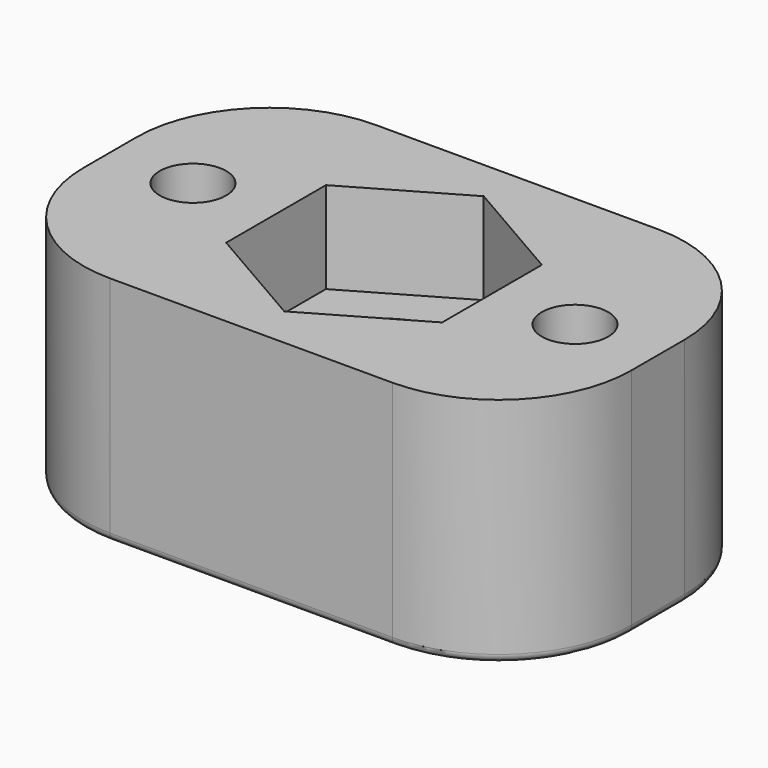
from build123d import *

# Parameters (mm, degrees)
SKETCH_W         = 33
SKETCH_H         = 20
PAD_DEPTH        = 14
FILLET_R         = 8
FILLET001_R      = 8
FILLET002_R      = 8
FILLET003_R      = 8
POCKET_DEPTH     = 5.51
SKETCH002_R      = 4
POCKET001_DEPTH  = 8.491
SKETCH003_R      = 2
POCKET002_DEPTH  = 14.001
CHAMFER_SIZE2    = 3
CHAMFER_SIZE     = 2
CHAMFER001_SIZE2 = 3
CHAMFER001_SIZE  = 2
FILLET004_R      = 0.5
SKETCH004_R      = 6.5
POCKET003_DEPTH  = 0.01


with BuildPart() as part:
    # Sketch → Pad (new body)
    with BuildSketch(Plane.XY):
        Rectangle(SKETCH_W, SKETCH_H)
    extrude(amount=PAD_DEPTH)

    # Fillet
    fillet_edges = [part.edges().sort_by_distance(p)[0] for p in [
        (-16.5, -10, 7),
    ]]
    fillet(fillet_edges, radius=FILLET_R)

    # Fillet001
    fillet001_edges = [part.edges().sort_by_distance(p)[0] for p in [
        (16.5, -10, 7),
    ]]
    fillet(fillet001_edges, radius=FILLET001_R)

    # Fillet002
    fillet002_edges = [part.edges().sort_by_distance(p)[0] for p in [
        (16.5, 10, 7),
    ]]
    fillet(fillet002_edges, radius=FILLET002_R)

    # Fillet003
    fillet003_edges = [part.edges().sort_by_distance(p)[0] for p in [
        (-16.5, 10, 7),
    ]]
    fillet(fillet003_edges, radius=FILLET003_R)

    # Sketch001 (on Face10 of Fillet003) → Pocket (cut)
    with BuildSketch(Plane.XY.offset(14)):
        Polygon((-6.5, 3.752777), (-6.5, -3.752777), (0, -7.505553), (6.5, -3.752777), (6.5, 3.752777), (0, 7.505553), align=None)
    extrude(amount=-POCKET_DEPTH, mode=Mode.SUBTRACT)

    # Sketch002 (on Face17 of Pocket) → Pocket001 (cut, through all)
    with BuildSketch(Plane.XY.offset(8.49)):
        Circle(SKETCH002_R)
    extrude(amount=-POCKET001_DEPTH, mode=Mode.SUBTRACT)

    # Sketch003 (on Face11 of Pocket001) → Pocket002 (cut, through all)
    with BuildSketch(Plane.XY.offset(14)):
        with Locations((-11.5, 0)):
            Circle(SKETCH003_R)
        with Locations((11.5, 0)):
            Circle(SKETCH003_R)
    extrude(amount=-POCKET002_DEPTH, mode=Mode.SUBTRACT)

    # Chamfer
    chamfer_edges = [part.edges().sort_by_distance(p)[0] for p in [
        (9.5, 0, 0),
    ]]
    chamfer_side = part.faces().sort_by_distance((0, 9.614124, 0))[0]
    chamfer(chamfer_edges, length=CHAMFER_SIZE, length2=CHAMFER_SIZE2, reference=chamfer_side)

    # Chamfer001
    chamfer001_edges = [part.edges().sort_by_distance(p)[0] for p in [
        (-13.5, 0, 0),
    ]]
    chamfer001_side = part.faces().sort_by_distance((7.114124, 0, 0))[0]
    chamfer(chamfer001_edges, length=CHAMFER001_SIZE, length2=CHAMFER001_SIZE2, reference=chamfer001_side)

    # Fillet004
    fillet004_edges = [part.edges().sort_by_distance(p)[0] for p in [
        (0, 10, 0),
        (-16.5, 0, 0),
        (0, -10, 0),
        (16.5, 0, 0),
    ]]
    fillet(fillet004_edges, radius=FILLET004_R)

    # Sketch004 (on Face24 of Fillet004) → Pocket003 (cut)
    with BuildSketch(Plane.XY.offset(14)):
        Circle(SKETCH004_R)
    extrude(amount=-POCKET003_DEPTH, mode=Mode.SUBTRACT)


solid = part.part
